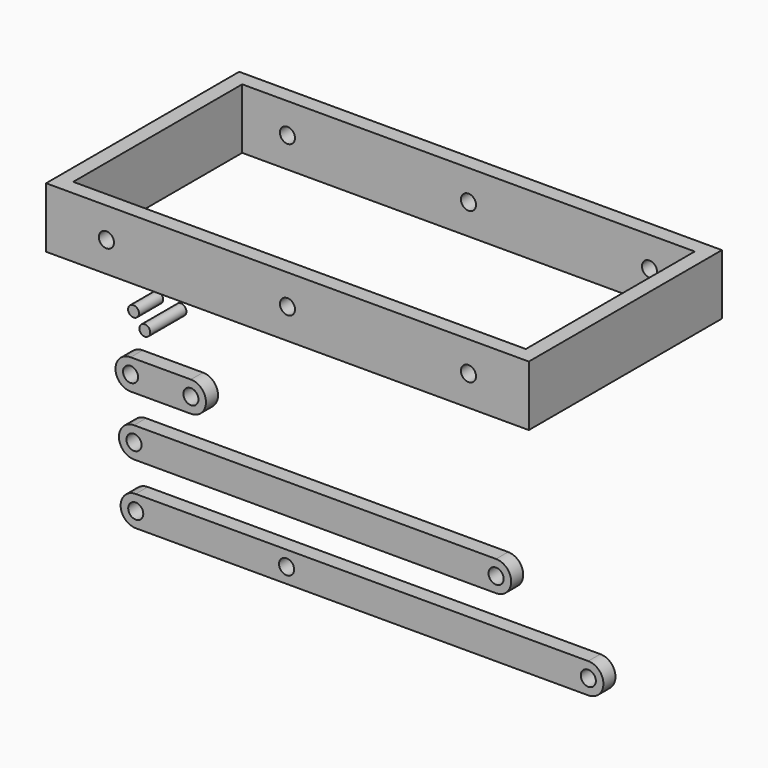
from build123d import *

# Parameters (mm, degrees)
F3_R      = 1.25
F4_DEPTH  = 2.5
F5_R      = 1.25
F6_DEPTH  = 2.5
F7_R      = 1.25
F8_DEPTH  = 2.5
F10_W     = 80
F10_H     = 40
F10_W_2   = 75
F10_H_2   = 35
F11_DEPTH = 10
F12_R     = 1.25
F13_DEPTH = 40.001
F14_R     = 0.9
F15_DEPTH = 5
F16_R     = 0.9
F17_DEPTH = 7.5


with BuildPart() as f4:
    # F3 (on Front) → F4 (new body)
    with BuildSketch(Plane.XZ):
        with BuildLine():
            Line((10, 2.5), (0, 2.5))
            ThreePointArc((0, 2.5), (-2.5, 0), (0, -2.5))
            Line((0, -2.5), (10, -2.5))
            ThreePointArc((10, -2.5), (12.5, 0), (10, 2.5))
        make_face()
        Circle(F3_R, mode=Mode.SUBTRACT)
        with Locations((10, 0)):
            Circle(F3_R, mode=Mode.SUBTRACT)
    extrude(amount=F4_DEPTH)


with BuildPart() as f6:
    # F5 (on Front) → F6 (new body)
    with BuildSketch(Plane.XZ):
        with BuildLine():
            Line((60.5706622079, -7.232673876), (0.5706622079, -7.232673876))
            ThreePointArc((0.5706622079, -7.232673876), (-1.9293377921, -9.732673876), (0.5706622079, -12.232673876))
            Line((0.5706622079, -12.232673876), (60.5706622079, -12.232673876))
            ThreePointArc((60.5706622079, -12.232673876), (63.0706622079, -9.732673876), (60.5706622079, -7.232673876))
        make_face()
        with Locations((0.5706622079, -9.732673876)):
            Circle(F5_R, mode=Mode.SUBTRACT)
        with Locations((60.5706622079, -9.732673876)):
            Circle(F5_R, mode=Mode.SUBTRACT)
    extrude(amount=F6_DEPTH)


with BuildPart() as f8:
    # F7 (on Front) → F8 (new body)
    with BuildSketch(Plane.XZ):
        with BuildLine():
            Line((75.8570737601, -17.1626018733), (0.8570737601, -17.1626018733))
            ThreePointArc((0.8570737601, -17.1626018733), (-1.6429262399, -19.6626018733), (0.8570737601, -22.1626018733))
            Line((0.8570737601, -22.1626018733), (75.8570737601, -22.1626018733))
            ThreePointArc((75.8570737601, -22.1626018733), (78.3570737601, -19.6626018733), (75.8570737601, -17.1626018733))
        make_face()
        with Locations((0.8570737601, -19.6626018733)):
            Circle(F7_R, mode=Mode.SUBTRACT)
        with Locations((25.8570737601, -19.6626018733)):
            Circle(F7_R, mode=Mode.SUBTRACT)
        with Locations((75.8570737601, -19.6626018733)):
            Circle(F7_R, mode=Mode.SUBTRACT)
    extrude(amount=F8_DEPTH)


with BuildPart() as f11:
    # F10 (on offset) → F11 (new body)
    with BuildSketch(Plane.XY.offset(25)):
        with Locations((40, 0)):
            Rectangle(F10_W, F10_H)
        with Locations((40, 0)):
            Rectangle(F10_W_2, F10_H_2, mode=Mode.SUBTRACT)
    extrude(amount=F11_DEPTH)

    # F12 (on face) → F13 (cut, through all)
    with BuildSketch(Plane.XZ.offset(20)):
        with Locations((10, 30)):
            Circle(F12_R)
        with Locations((70, 30)):
            Circle(F12_R)
        with Locations((40, 30)):
            Circle(F12_R)
    extrude(amount=-F13_DEPTH, mode=Mode.SUBTRACT)


with BuildPart() as f15:
    # F14 (on Front) → F15 (new body)
    with BuildSketch(Plane.XZ):
        with Locations((2.488047583, 11.0218990594)):
            Circle(F14_R)
    extrude(amount=F15_DEPTH)


with BuildPart() as f17:
    # F16 (on Front) → F17 (new body)
    with BuildSketch(Plane.XZ):
        with Locations((6.359864492, 10.5073517188)):
            Circle(F16_R)
    extrude(amount=F17_DEPTH)


solid = Compound([f4.part, f6.part, f8.part, f11.part, f15.part, f17.part])
